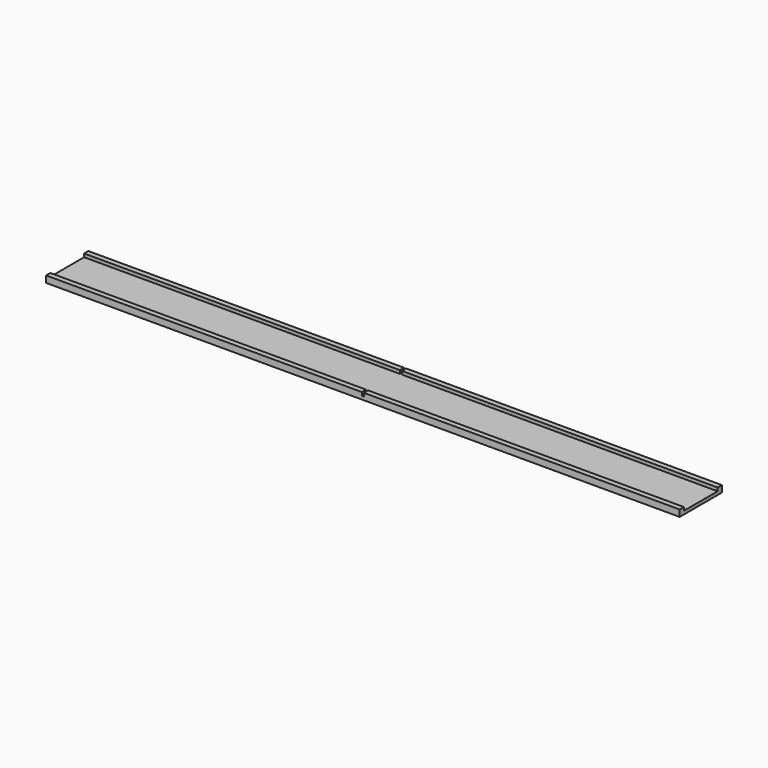
from build123d import *

# Parameters (mm, degrees)
F0_W     = 609.6
F0_H     = 50.8
F1_DEPTH = 6.35
F2_W     = 609.6
F2_H     = 40.64
F3_DEPTH = 3.175
F4_W     = 2.032
F4_H     = 3.175
F5_DEPTH = 50.8


with BuildPart() as f1:
    # F0 (on Top) → F1 (new body)
    with BuildSketch(Plane.XY):
        Rectangle(F0_W, F0_H)
    extrude(amount=F1_DEPTH)

    # F2 (on face) → F3 (cut)
    with BuildSketch(Plane.XY.offset(6.35)):
        Rectangle(F2_W, F2_H)
    extrude(amount=-F3_DEPTH, mode=Mode.SUBTRACT)

    # F4 (on face) → F5 (cut, through all)
    with BuildSketch(Plane.XZ.offset(25.4)):
        with Locations((0, 4.7625)):
            Rectangle(F4_W, F4_H)
    extrude(amount=-F5_DEPTH, mode=Mode.SUBTRACT)


solid = f1.part
